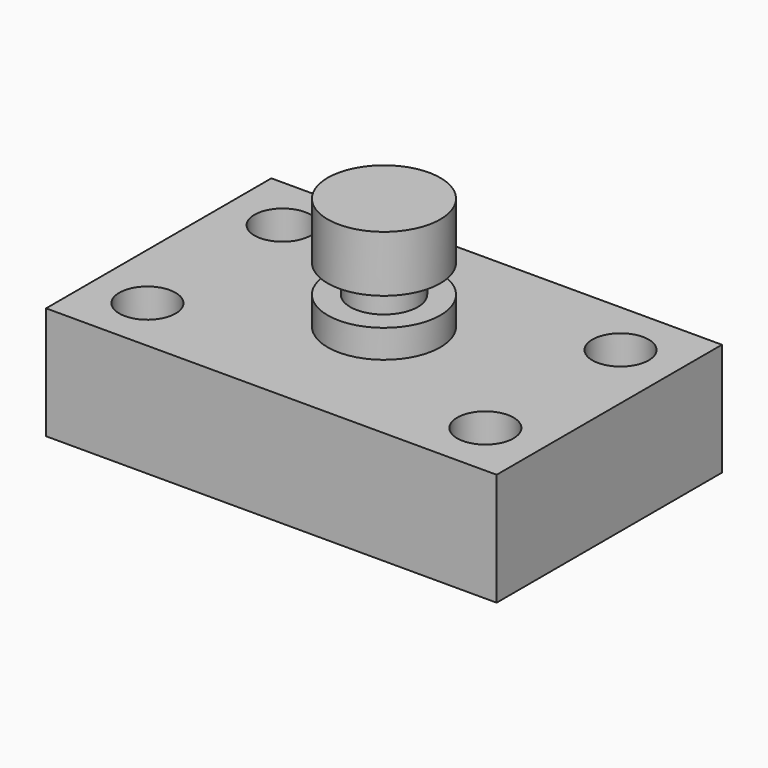
from build123d import *

# Parameters (mm, degrees)
F0_W     = 101.6
F0_H     = 63.5
F1_DEPTH = 25.4
F2_R     = 6.35
F3_DEPTH = 25.401
F4_W     = 12.7
F4_H     = 25.4
F6_W     = 13.615308
F6_H     = 6.35


with BuildPart() as f1:
    # F0 (on Top) → F1 (new body)
    with BuildSketch(Plane.XY):
        Rectangle(F0_W, F0_H)
    extrude(amount=F1_DEPTH)

    # F2 (on face) → F3 (cut, through all)
    with BuildSketch(Plane.XY.offset(25.4)):
        with Locations((-38.1, 19.05)):
            Circle(F2_R)
        with Locations((38.1, 19.05)):
            Circle(F2_R)
        with Locations((38.1, -19.05)):
            Circle(F2_R)
        with Locations((-38.1, -19.05)):
            Circle(F2_R)
    extrude(amount=-F3_DEPTH, mode=Mode.SUBTRACT)

    # F4 (on Front) → F5 (revolve)
    with BuildSketch(Plane.XZ):
        with Locations((-6.35, 38.1)):
            Rectangle(F4_W, F4_H)
    revolve(axis=Axis((0, 0, 38.1), (0, 0, 1)))

    # F6 (on Front) → F7 (revolve, cut)
    with BuildSketch(Plane.XZ):
        with Locations((-14.427654, 34.925)):
            Rectangle(F6_W, F6_H)
    revolve(axis=Axis((0, 0, 50.8), (0, 0, 1)), mode=Mode.SUBTRACT)


solid = f1.part
